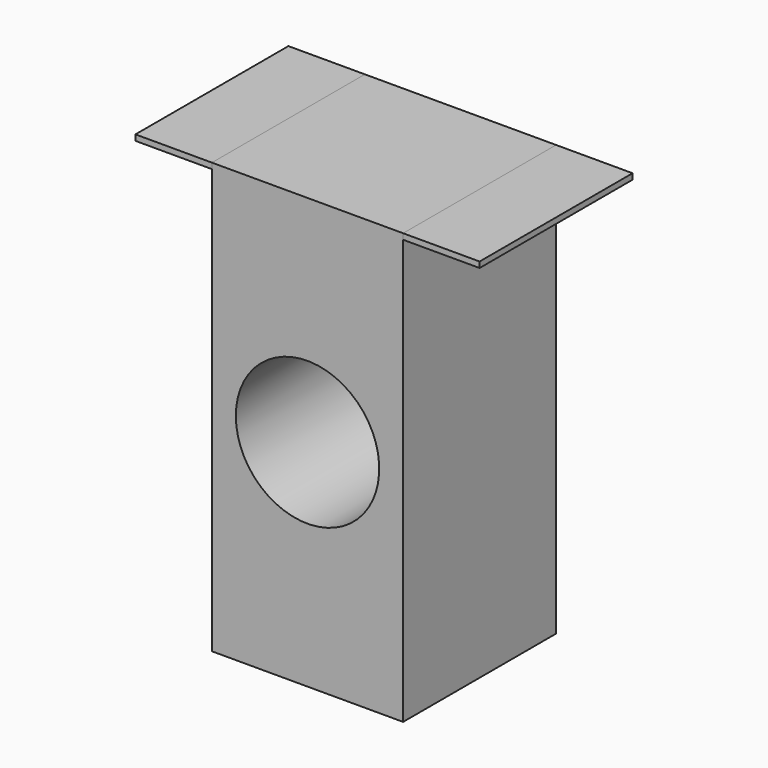
from build123d import *

# Parameters (mm, degrees)
F0_W     = 25.4
F0_H     = 57.15
F1_DEPTH = 25.4
F2_W     = 10.16
F2_H     = 25.4
F3_DEPTH = 0.762
F4_R     = 9.525
F5_DEPTH = 25.4


with BuildPart() as f1:
    # F0 (on Front) → F1 (new body)
    with BuildSketch(Plane.XZ):
        Rectangle(F0_W, F0_H)
    extrude(amount=F1_DEPTH)

    # F4 (on face) → F5 (cut)
    with BuildSketch(Plane(origin=(0, 0, 0), x_dir=(-1, 0, 0), z_dir=(0, 1, 0))):
        Circle(F4_R)
    extrude(amount=-F5_DEPTH, mode=Mode.SUBTRACT)


with BuildPart() as f3:
    # F2 (on face) → F3 (new body)
    with BuildSketch(Plane.XY.offset(28.575)):
        with Locations((-17.78, -12.7)):
            Rectangle(F2_W, F2_H)
        with Locations((17.78, -12.7)):
            Rectangle(F2_W, F2_H)
    extrude(amount=-F3_DEPTH)


solid = Compound([f1.part, f3.part])
